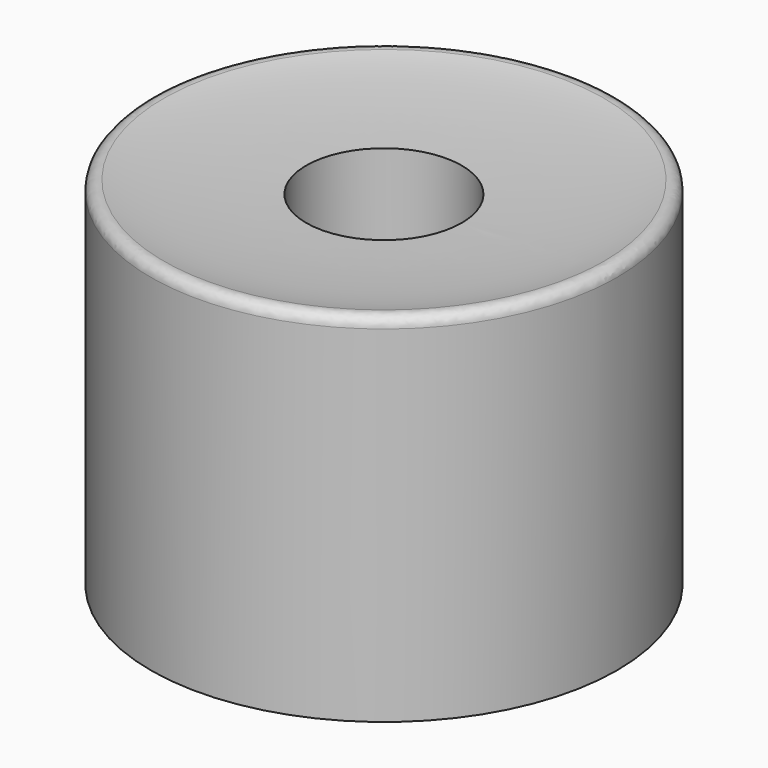
from build123d import *

# Parameters (mm, degrees)
F0_R     = 45
F1_DEPTH = 70
F4_R     = 2
F5_R     = 15
F6_DEPTH = 88.4901


with BuildPart() as f1:
    # F0 (on Top) → F1 (new body)
    with BuildSketch(Plane.XY):
        Circle(F0_R)
    extrude(amount=F1_DEPTH)

    # F2 (on Front) → F3 (revolve, cut)
    with BuildSketch(Plane.XZ):
        with BuildLine():
            Line((0, 70), (0, 66))
            add(Edge.make_bspline(
                [(0, 66), (45, 66), (45, 70)],
                knots=[4.7123889804, 4.7123889804, 4.7123889804, 6.2831853072, 6.2831853072, 6.2831853072], degree=2, weights=[1, 0.7071067812, 1]))
            Line((45, 70), (0, 70))
        make_face()
    revolve(axis=Axis((0, 0, 35), (0, 0, 1)), mode=Mode.SUBTRACT)

    # F4
    f4_edges = [f1.edges().sort_by_distance(p)[0] for p in [
        (-45, 0, 70),
    ]]
    fillet(f4_edges, radius=F4_R)

    # F5 (on Top) → F6 (cut)
    with BuildSketch(Plane.XY):
        Circle(F5_R)
    extrude(amount=F6_DEPTH, mode=Mode.SUBTRACT)


solid = f1.part
